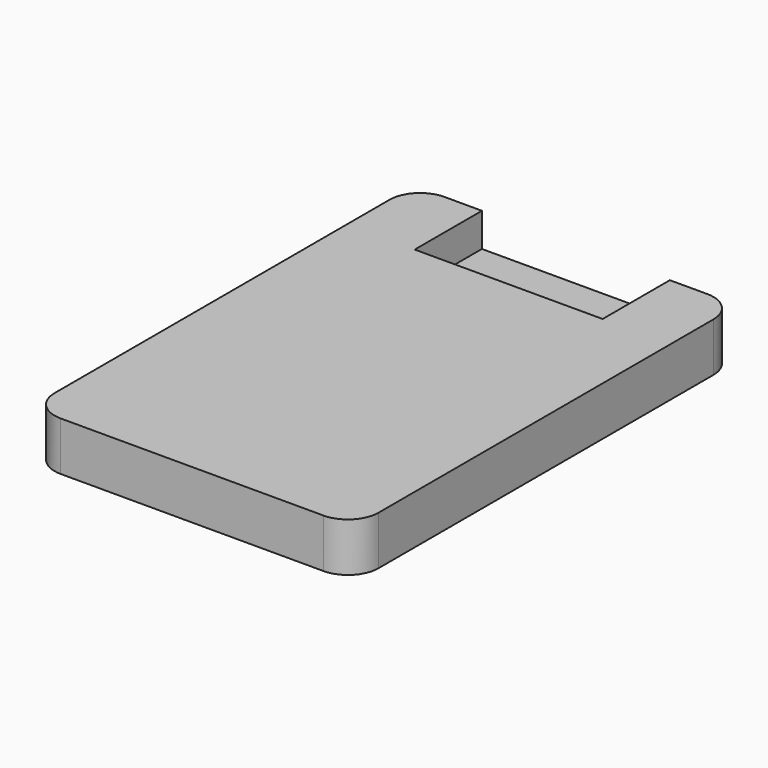
from build123d import *

# Parameters (mm, degrees)
F0_W     = 12.3
F0_H     = 9.7
F1_DEPTH = 3.2
F2_R     = 2
F3_DEPTH = 2.5
F0_H_2   = 5.5
F4_DEPTH = 1


with BuildPart() as f1:
    # F0 (on Top) → F1 (new body)
    with BuildSketch(Plane.XY):
        Polygon((-44.4362910628, 49.737931484), (-48.8862910628, 49.737931484), (-48.8862910628, 18.337931484), (-27.6862910628, 18.337931484), (-27.6862910628, 49.737931484), (-32.1362910628, 49.737931484), (-32.1362910628, 44.237931484), (-32.1362910628, 34.537931484), (-44.4362910628, 34.537931484), (-44.4362910628, 44.237931484), align=None)
        with Locations((-38.2862910628, 39.387931484)):
            Rectangle(F0_W, F0_H)
    extrude(amount=F1_DEPTH)

    # F2
    f2_edges = [f1.edges().sort_by_distance(p)[0] for p in [
        (-27.686291, 18.337931, 1.6),
        (-27.686291, 49.737931, 1.6),
        (-48.886291, 18.337931, 1.6),
        (-48.886291, 49.737931, 1.6),
    ]]
    fillet(f2_edges, radius=F2_R)

    # F0 (on Top) → F3 (cut)
    with BuildSketch(Plane.XY):
        with Locations((-38.2862910628, 39.387931484)):
            Rectangle(F0_W, F0_H)
    extrude(amount=F3_DEPTH, mode=Mode.SUBTRACT)

    # F0 (on Top) → F4 (join)
    with BuildSketch(Plane.XY):
        with Locations((-38.2862910628, 39.387931484)):
            Rectangle(F0_W, F0_H)
        with Locations((-38.2862910628, 46.987931484)):
            Rectangle(F0_W, F0_H_2)
    extrude(amount=F4_DEPTH)


solid = f1.part
